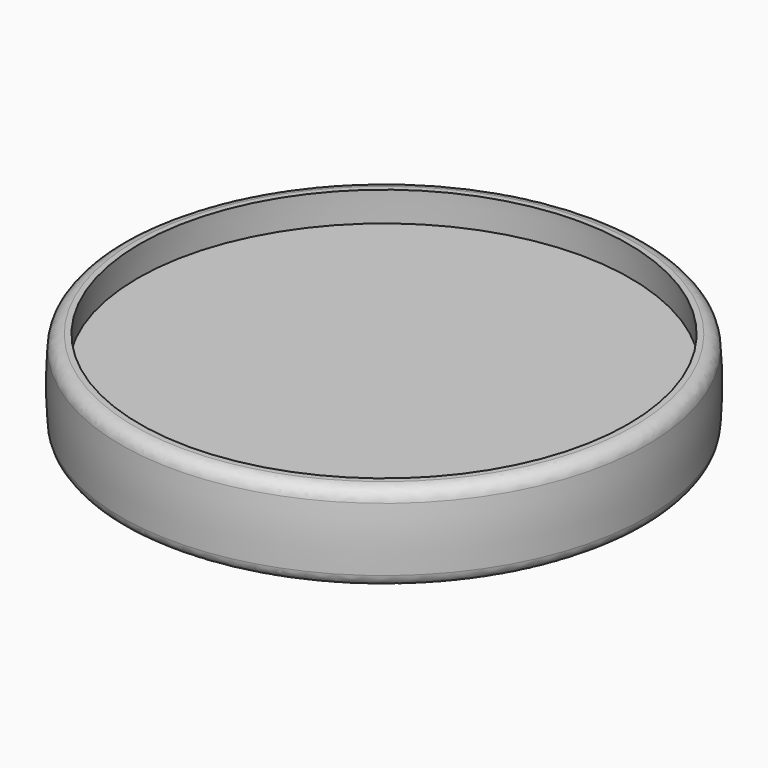
from build123d import *

# Parameters (mm, degrees)
F2_R = 0.75


with BuildPart() as f1:
    # F0 (on Front) → F1 (revolve)
    with BuildSketch(Plane.XZ):
        with BuildLine():
            ThreePointArc((-13.869437, -2.5), (-13.94485, -1.626086), (-13.988278, -0.75))
            ThreePointArc((-13.988278, -0.75), (-14, 0), (-13.988278, 0.75))
            ThreePointArc((-13.988278, 0.75), (-13.94485, 1.626086), (-13.869437, 2.5))
            Line((-13.869437, 2.5), (-14.874686, 2.5))
            ThreePointArc((-14.874686, 2.5), (-15, 0), (-14.874686, -2.5))
            Line((-14.874686, -2.5), (-13.869437, -2.5))
        make_face()
        with BuildLine():
            Line((0, -0.75), (0, 0))
            Line((0, 0), (0, 0.75))
            Line((0, 0.75), (-13.988278, 0.75))
            ThreePointArc((-13.988278, 0.75), (-14, 0), (-13.988278, -0.75))
            Line((-13.988278, -0.75), (0, -0.75))
        make_face()
    revolve(axis=Axis((0, 0, -0.375), (0, 0, -1)))

    # F2
    f2_edges = [f1.edges().sort_by_distance(p)[0] for p in [
        (14.874686, 0, 2.5),
        (14.874686, 0, -2.5),
    ]]
    fillet(f2_edges, radius=F2_R)


solid = f1.part
